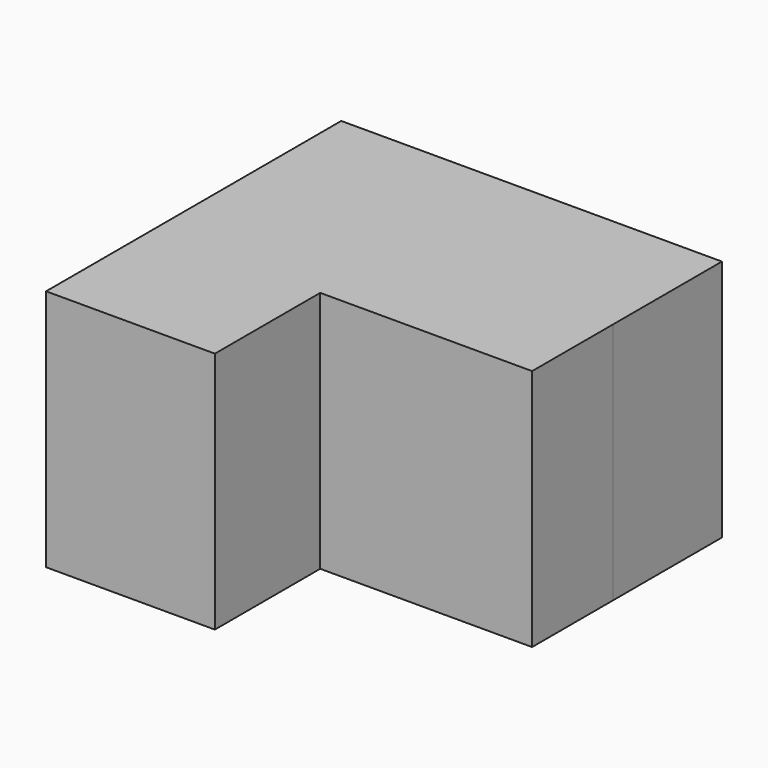
from build123d import *

# Parameters (mm, degrees)
F1_DEPTH  = 25.4
F1_FACE_W = 14.244386
F1_FACE_H = 25.4
F2_DEPTH  = 12.267292


with BuildPart() as f1:
    # F0 (on Top) → F1 (new body)
    with BuildSketch(Plane.XY):
        Polygon((0, 38.573816), (0, 24.329431), (17.647689, 24.329431), (27.533256, 24.329431), (27.533256, 38.573816), align=None)
        Polygon((0, 24.329431), (0, 0), (17.647689, 0), (17.647689, 13.766627), (17.647689, 24.329431), align=None)
        Polygon((17.647689, 24.329431), (17.647689, 13.766627), (39.800547, 13.766627), (39.800547, 24.329431), (27.533256, 24.329431), align=None)
    extrude(amount=F1_DEPTH)

    # F1_face (on face) → F2 (join, through all)
    with BuildSketch(Plane(origin=(27.533256, 31.451624, 12.7), x_dir=(0, 1, 0), z_dir=(1, 0, 0))):
        Rectangle(F1_FACE_W, F1_FACE_H)
    extrude(amount=F2_DEPTH)


solid = f1.part
